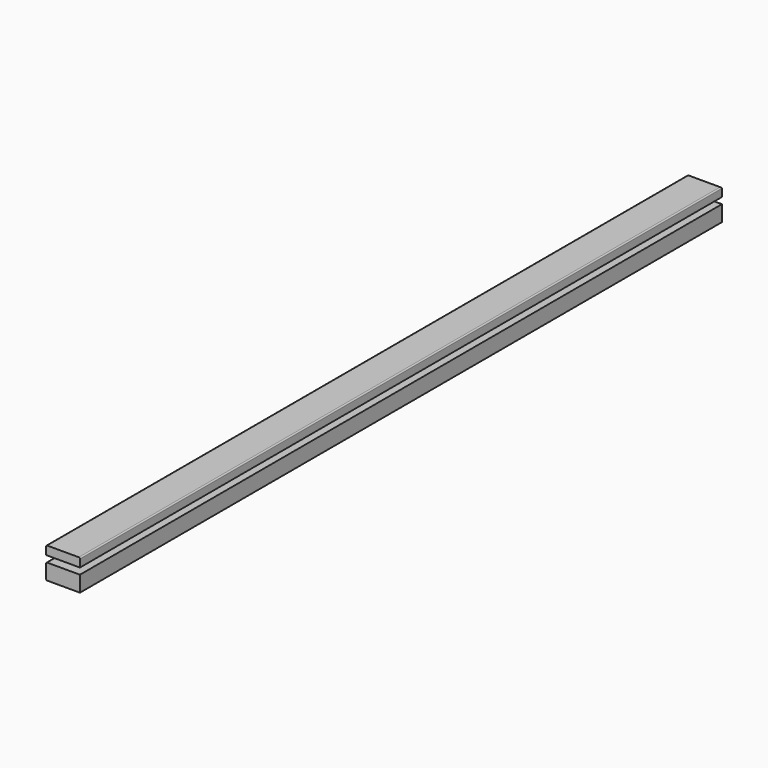
from build123d import *

# Parameters (mm, degrees)
F0_W     = 128.624879
F0_H     = 33.107586
F0_H_2   = 60.22156
F1_DEPTH = 3048
F2_R     = 4.572


with BuildPart() as f1:
    # F0 (on Front) → F1 (new body)
    with BuildSketch(Plane.XZ):
        with Locations((10.940726, 40.433116)):
            Rectangle(F0_W, F0_H)
        with Locations((10.940726, -30.11078)):
            Rectangle(F0_W, F0_H_2)
    extrude(amount=F1_DEPTH)

    # F2
    f2_edges = [f1.edges().sort_by_distance(p)[0] for p in [
        (-53.371713, -1524, 56.986909),
        (-53.371713, -1524, 0),
        (-53.371713, -1524, -60.22156),
        (-53.371713, 0, -30.11078),
        (10.940727, 0, 56.986909),
        (75.253166, -1524, 56.986909),
    ]]
    fillet(f2_edges, radius=F2_R)


solid = f1.part
